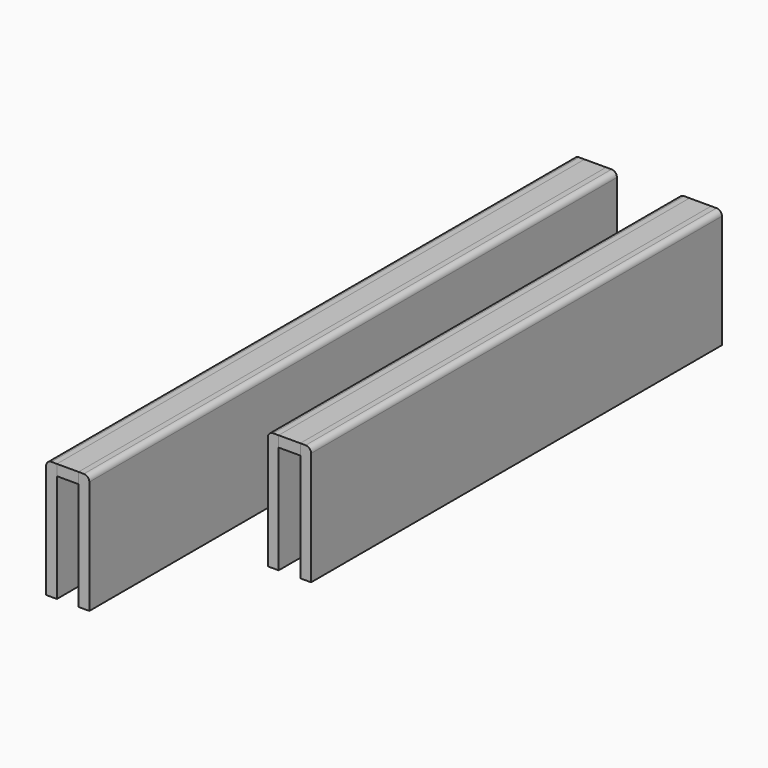
from build123d import *

# Parameters (mm, degrees)
F0_W     = 2
F0_H     = 61
F0_H_2   = 47.5
F1_DEPTH = 1
F0_W_2   = 1
F2_DEPTH = 11
F3_R     = 0.5


with BuildPart() as f1:
    # F0 (on Top) → F1 (new body)
    with BuildSketch(Plane.XY):
        with Locations((1, -30.5)):
            Rectangle(F0_W, F0_H)
        with Locations((10.709677, -23.75)):
            Rectangle(F0_W, F0_H_2)
    extrude(amount=-F1_DEPTH)


with BuildPart() as f2:
    # F0 (on Top) → F2 (new body)
    with BuildSketch(Plane.XY):
        with Locations((2.5, -30.5)):
            Rectangle(F0_W_2, F0_H)
        with Locations((9.209677, -23.75)):
            Rectangle(F0_W_2, F0_H_2)
        with Locations((12.209677, -23.75)):
            Rectangle(F0_W_2, F0_H_2)
        with Locations((-0.5, -30.5)):
            Rectangle(F0_W_2, F0_H)
    extrude(amount=-F2_DEPTH)

    # F3
    f3_edges = [f2.edges().sort_by_distance(p)[0] for p in [
        (-1, -30.5, 0),
        (3, -30.5, 0),
        (8.709677, -23.75, 0),
        (12.709677, -23.75, 0),
    ]]
    fillet(f3_edges, radius=F3_R)


solid = Compound([f1.part, f2.part])
